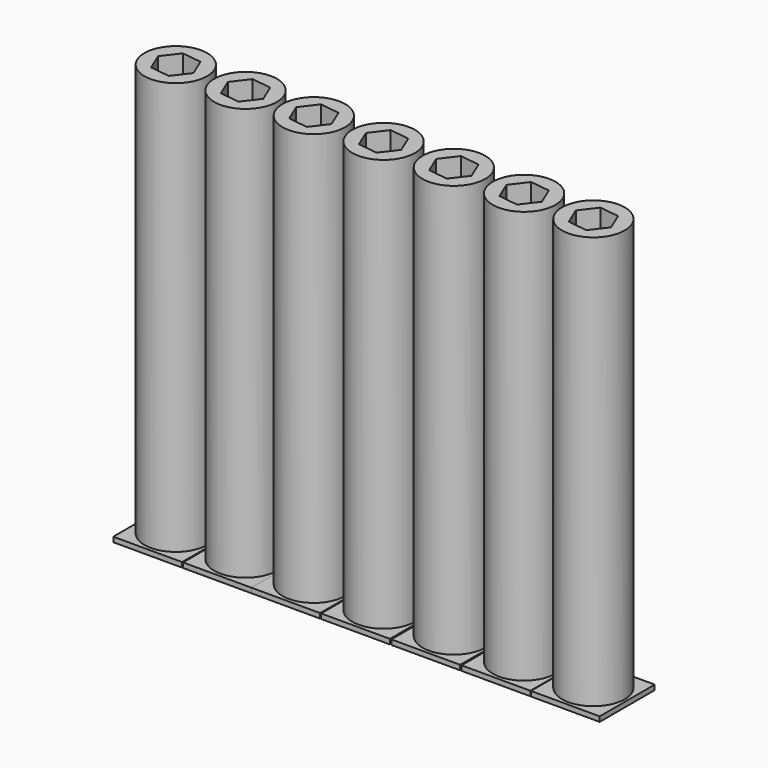
from build123d import *

# Parameters (mm, degrees)
F0_R     = 6.382171
F1_DEPTH = 85
F3_W     = 14
F3_H     = 14
F4_DEPTH = 1


with BuildPart() as f1:
    # F0 (on Top) → F1 (new body)
    with BuildSketch(Plane.XY):
        with Locations((-43.178268, 23.938213)):
            Circle(F0_R)
        Polygon((-40.723286, 27.148571), (-39.170525, 23.417315), (-41.625507, 20.206957), (-45.633249, 20.727854), (-47.18601, 24.45911), (-44.731029, 27.669468), align=None, mode=Mode.SUBTRACT)
    extrude(amount=F1_DEPTH)

    # F3 (on offset) → F4 (join)
    with BuildSketch(Plane.XY):
        with Locations((-43.236937, 23.860827)):
            Rectangle(F3_W, F3_H)
    extrude(amount=F4_DEPTH)


with BuildPart() as f5_1:
    # F5: copy of F1
    add(f1.part.moved(Location((14.2, 0, 0))))


with BuildPart() as f6_1:
    # F6: copy of F5_1
    add(f5_1.part.moved(Location((13.9, 0, 0))))


with BuildPart() as f7_1:
    # F7: copy of F6_1
    add(f6_1.part.moved(Location((14.2, 0, 0))))


with BuildPart() as f8_1:
    # F8: copy of F7_1
    add(f7_1.part.moved(Location((14.3, 0, 0))))


with BuildPart() as f9_1:
    # F9: copy of F8_1
    add(f8_1.part.moved(Location((14.3, 0, 0))))


with BuildPart() as f10_1:
    # F10: copy of F9_1
    add(f9_1.part.moved(Location((14.1, 0, 0))))


solid = Compound([f1.part, f5_1.part, f6_1.part, f7_1.part, f8_1.part, f9_1.part, f10_1.part])
